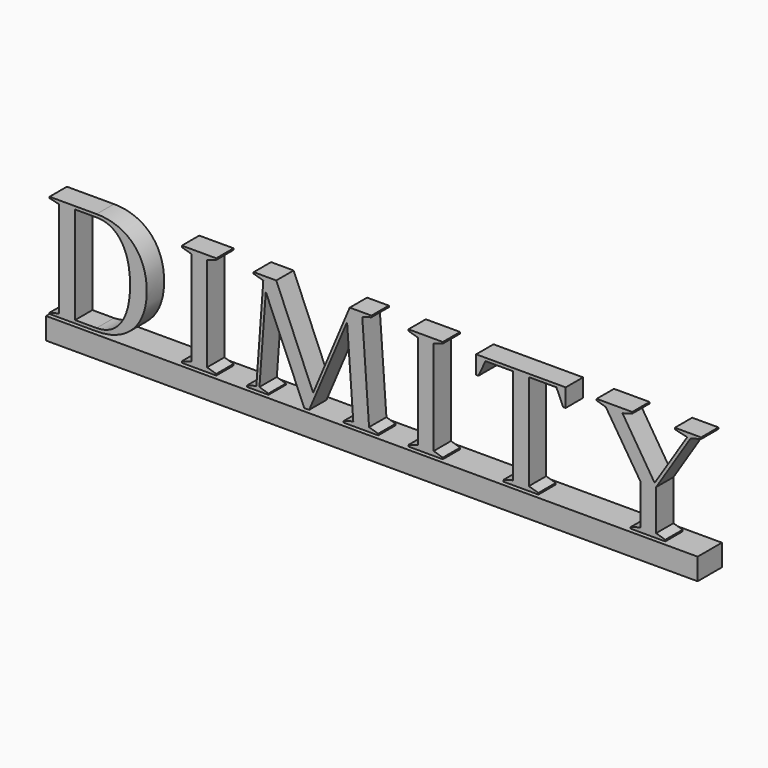
from build123d import *

# Parameters (mm, degrees)
F1_DEPTH      = 10
F2_W          = 300.4877288307
F2_H          = 10
F3_DEPTH      = 12
F3_DEPTH_BACK = 2


with BuildPart() as f1:
    # F0 (on Front) → F1 (new body)
    with BuildSketch(Plane.XZ):
        with BuildLine():
            Line((-128.5430908417, 61.5803188143), (-150.2438644154, 61.5803188143))
            Line((-150.2438644154, 61.5803188143), (-150.2438644154, 60.9673641131))
            Line((-150.2438644154, 60.9673641131), (-145.822049572, 59.9470982195))
            Line((-145.822049572, 59.9470982195), (-145.822049572, 15.5938366192))
            Line((-145.822049572, 15.5938366192), (-150.2438644154, 14.5050264939))
            Line((-150.2438644154, 14.5050264939), (-150.2438644154, 13.961612684))
            Line((-150.2438644154, 13.961612684), (-128.5430908417, 13.961612684))
            add(Edge.make_bspline(
                [(-128.5430908417, 13.961612684), (-114.9375294447, 13.961612684), (-105.4137507313, 22.8042871634), (-105.4137507313, 37.7704674193)],
                knots=[0, 0, 0, 0, 1, 1, 1, 1], degree=3))
            add(Edge.make_bspline(
                [(-105.4137507313, 37.7704674193), (-105.4137507313, 52.6005865102), (-114.9375294447, 61.5803188143), (-128.5430908417, 61.5803188143)],
                knots=[0, 0, 0, 0, 1, 1, 1, 1], degree=3))
        make_face()
        with BuildLine():
            Line((-138.4755378628, 15.3216367913), (-138.4755378628, 60.2193034542))
            Line((-138.4755378628, 60.2193034542), (-128.5430908417, 60.2193034542))
            add(Edge.make_bspline(
                [(-128.5430908417, 60.2193034542), (-119.5629998843, 60.2193034542), (-113.1010137092, 52.7364908771), (-113.1010137092, 37.7029144405)],
                knots=[0, 0, 0, 0, 1, 1, 1, 1], degree=3))
            add(Edge.make_bspline(
                [(-113.1010137092, 37.7029144405), (-113.1010137092, 22.7367341846), (-119.5629998843, 15.3216367913), (-128.5430908417, 15.3216367913)],
                knots=[0, 0, 0, 0, 1, 1, 1, 1], degree=3))
            Line((-128.5430908417, 15.3216367913), (-138.4755378628, 15.3216367913))
        make_face(mode=Mode.SUBTRACT)
    extrude(amount=F1_DEPTH)



with BuildPart() as f1b:
    # F0 (on Front) → F1, piece 2 (new body)
    with BuildSketch(Plane.XZ):
        Polygon((-73.3692503281, 61.5803188143), (-89.2206283678, 61.5803188143), (-89.2206283678, 60.8998111343), (-84.7978204693, 59.6073400059), (-84.7978204693, 15.9335948328), (-89.2206283678, 14.6411291112), (-89.2206283678, 13.961612684), (-73.3692503281, 13.961612684), (-73.3692503281, 14.6411291112), (-77.5874059707, 15.9335948328), (-77.5874059707, 59.6073400059), (-73.3692503281, 60.8998111343), align=None)
    extrude(amount=F1_DEPTH)


with BuildPart() as f1c:
    # F0 (on Front) → F1, piece 3 (new body)
    with BuildSketch(Plane.XZ):
        Polygon((-45.6819891524, 61.5803188143), (-56.0902915977, 61.5803188143), (-56.0902915977, 60.8998111343), (-51.6684767544, 59.6073400059), (-54.8663701079, 15.7974922154), (-59.2871936984, 14.5050264939), (-59.2871936984, 13.961612684), (-49.2871936984, 13.961612684), (-49.2871936984, 14.5050264939), (-53.4377999666, 15.7974922154), (-50.5121118479, 55.3901756161), (-32.7572976934, 13.961612684), (-30.5121118479, 13.961612684), (-13.0295029282, 55.3216259776), (-10.1713677883, 15.9335948328), (-14.5941738845, 14.6411291112), (-14.5941738845, 13.961612684), (1.3247553318, 13.961612684), (1.3247553318, 14.6411291112), (-2.8934057176, 15.9335948328), (-6.0217563775, 59.6073400059), (-1.8045883832, 60.8998111343), (-1.8045883832, 61.5803188143), (-11.8045883832, 61.5803188143), (-28.6752410637, 21.4442270106), align=None)
    extrude(amount=F1_DEPTH)


with BuildPart() as f1d:
    # F0 (on Front) → F1, piece 4 (new body)
    with BuildSketch(Plane.XZ):
        Polygon((31.1240752963, 61.5803188143), (15.2736903117, 61.5803188143), (15.2736903117, 60.8998111343), (19.6955051551, 59.6073400059), (19.6955051551, 15.9335948328), (15.2736903117, 14.6411291112), (15.2736903117, 13.961612684), (31.1240752963, 13.961612684), (31.1240752963, 14.6411291112), (26.9069127088, 15.9335948328), (26.9069127088, 59.6073400059), (31.1240752963, 60.8998111343), align=None)
    extrude(amount=F1_DEPTH)


with BuildPart() as f1e:
    # F0 (on Front) → F1, piece 5 (new body)
    with BuildSketch(Plane.XZ):
        Polygon((87.7920582266, 61.5803188143), (46.4995961095, 61.5803188143), (46.4995961095, 53.2125499586), (47.587414982, 53.2125499586), (50.7853083355, 60.2193034542), (63.4377999666, 60.2193034542), (63.4377999666, 15.9335948328), (59.0159851233, 14.6411291112), (59.0159851233, 13.961612684), (75.2071195743, 13.961612684), (75.2071195743, 14.6411291112), (70.7853047309, 15.9335948328), (70.7853047309, 60.2193034542), (83.5073372534, 60.2193034542), (86.6356897155, 53.2125499586), (87.7920582266, 53.2125499586), align=None)
    extrude(amount=F1_DEPTH)


with BuildPart() as f1f:
    # F0 (on Front) → F1, piece 6 (new body)
    with BuildSketch(Plane.XZ):
        Polygon((118.4755414673, 61.5803188143), (102.0807460133, 61.5803188143), (102.0807460133, 60.8998111343), (106.2979140076, 59.6073400059), (122.2168450261, 34.6411237044), (122.2168450261, 15.9335948328), (117.7950337873, 14.6411291112), (117.7950337873, 13.961612684), (133.7129717507, 13.961612684), (133.7129717507, 14.6411291112), (129.4958037565, 15.9335948328), (129.4958037565, 34.6411237044), (145.4137417199, 59.6073400059), (150.2438644154, 60.8998111343), (150.2438644154, 61.5803188143), (138.1357796492, 61.5803188143), (138.1357796492, 60.8998111343), (143.8500602141, 59.6073400059), (128.8162873292, 36.1382416819), (113.9861682383, 59.6073400059), (118.4755414673, 60.8998111343), align=None)
    extrude(amount=F1_DEPTH)


with BuildPart() as f1_1:
    add(f1.part)

    add(f1b.part)  # F3 merges F1b

    add(f1c.part)  # F3 merges F1c

    add(f1d.part)  # F3 merges F1d

    add(f1e.part)  # F3 merges F1e

    add(f1f.part)  # F3 merges F1f
    # F2 (on Front) → F3 (join, two sides)
    with BuildSketch(Plane.XZ) as f3_sk:
        with Locations((0, 8.961612684)):
            Rectangle(F2_W, F2_H)
    extrude(amount=F3_DEPTH)
    extrude(f3_sk.sketch, amount=-F3_DEPTH_BACK)


solid = f1_1.part
